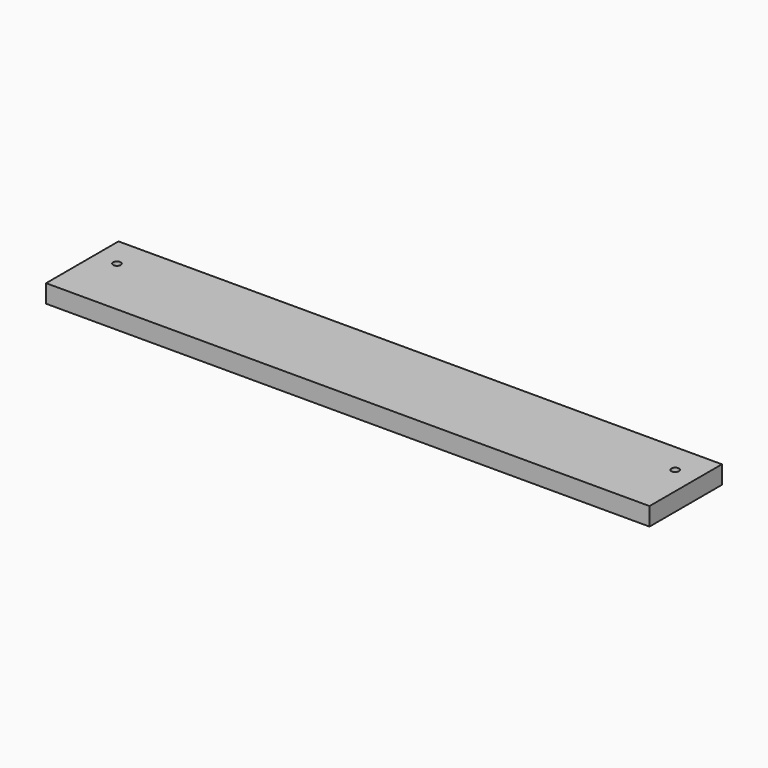
from build123d import *

# Parameters (mm, degrees)
F0_W           = 400
F0_H           = 60
F1_DEPTH       = 12
F3_D           = 5
F3_CBORE_D     = 9.75
F3_CBORE_DEPTH = 5


with BuildPart() as f1:
    # F0 (on Top) → F1 (new body)
    with BuildSketch(Plane.XY):
        with Locations((200, -30)):
            Rectangle(F0_W, F0_H)
    extrude(amount=F1_DEPTH)

    # F3 (through all)
    with Locations(Plane(origin=(0, 0, 0), x_dir=(1, 0, 0), z_dir=(0, 0, -1))):
        with Locations((15, 20), (385, 20)):
            CounterBoreHole(F3_D / 2, F3_CBORE_D / 2, F3_CBORE_DEPTH)


solid = f1.part
